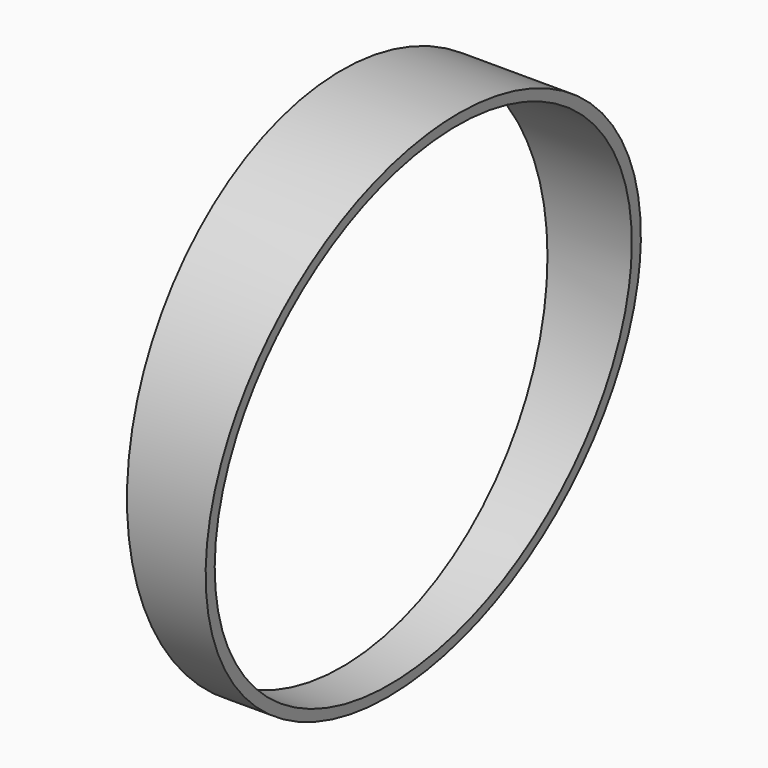
from build123d import *

# Parameters (mm, degrees)
F0_R     = 38.1
F0_R_2   = 36.5125
F1_DEPTH = 14.9225
F3_DEPTH = 63.5


with BuildPart() as f1:
    # F0 (on Right) → F1 (new body, symmetric)
    with BuildSketch(Plane.YZ):
        with Locations((0, 38.1)):
            Circle(F0_R)
        with Locations((0, 38.1)):
            Circle(F0_R_2, mode=Mode.SUBTRACT)
    extrude(amount=F1_DEPTH, both=True)

    # F2 (on Front) → F3 (cut, symmetric)
    with BuildSketch(Plane.XZ):
        Polygon((1.670167, 76.2), (-10.148637, -13.572731), (14.989981, -13.572731), (14.989981, 76.2), align=None)
    extrude(amount=F3_DEPTH, both=True, mode=Mode.SUBTRACT)


solid = f1.part
